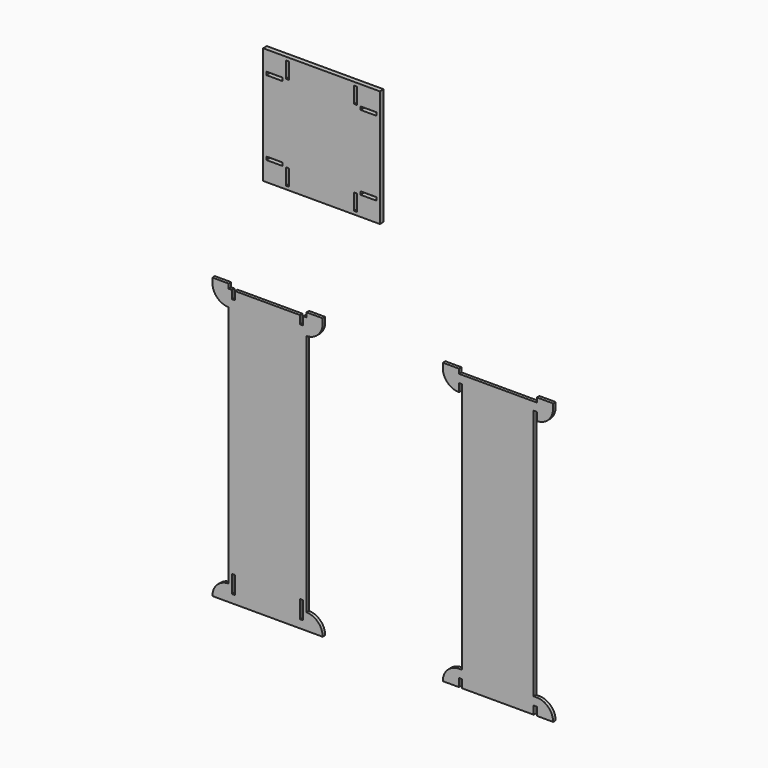
from build123d import *

# Parameters (mm, degrees)
F0_W     = 63.5
F0_H     = 17.78
F0_W_2   = 12.7
F0_H_2   = 38.1
F1_DEPTH = 12.319
F0_W_3   = 457.2
F0_H_3   = 457.2
F0_H_4   = 12.319
F0_W_4   = 12.319
F0_H_5   = 63.5
F2_DEPTH = 18.161


with BuildPart() as f1:
    # F0 (on Front) → F1 (new body)
    with BuildSketch(Plane.XZ):
        with BuildLine():
            Line((-139.7, 565.15), (-139.7, 596.9))
            Line((-139.7, 596.9), (-203.2, 596.9))
            ThreePointArc((-203.2, 596.9), (-184.601281, 551.998719), (-139.7, 533.4))
            Line((-139.7, 533.4), (-139.7, 565.15))
        make_face()
        with BuildLine():
            Line((228.6, 596.9), (165.1, 596.9))
            Line((165.1, 596.9), (165.1, 533.4))
            ThreePointArc((165.1, 533.4), (210.001281, 551.998719), (228.6, 596.9))
        make_face()
        with BuildLine():
            Line((-139.7, -482.6), (-139.7, -419.1))
            ThreePointArc((-139.7, -419.1), (-184.601281, -437.698719), (-203.2, -482.6))
            Line((-203.2, -482.6), (-139.7, -482.6))
        make_face()
        with BuildLine():
            Line((165.1, -419.1), (165.1, -482.6))
            Line((165.1, -482.6), (228.6, -482.6))
            ThreePointArc((228.6, -482.6), (210.001281, -437.698719), (165.1, -419.1))
        make_face()
        with Locations((-171.45, 605.79)):
            Rectangle(F0_W, F0_H)
        with Locations((196.85, 605.79)):
            Rectangle(F0_W, F0_H)
        with Locations((730.25, 605.79)):
            Rectangle(F0_W, F0_H)
        with BuildLine():
            ThreePointArc((698.5, 596.9), (717.098719, 551.998719), (762, 533.4))
            Line((762, 533.4), (762, 565.15))
            Line((762, 565.15), (762, 596.9))
            Line((762, 596.9), (698.5, 596.9))
        make_face()
        with Locations((1098.55, 605.79)):
            Rectangle(F0_W, F0_H)
        with BuildLine():
            Line((1066.8, 565.15), (1066.8, 533.4))
            ThreePointArc((1066.8, 533.4), (1111.701281, 551.998719), (1130.3, 596.9))
            Line((1130.3, 596.9), (1066.8, 596.9))
            Line((1066.8, 596.9), (1066.8, 565.15))
        make_face()
        with BuildLine():
            Line((698.5, -482.6), (762, -482.6))
            Line((762, -482.6), (762, -450.85))
            Line((762, -450.85), (762, -419.1))
            ThreePointArc((762, -419.1), (717.098719, -437.698719), (698.5, -482.6))
        make_face()
        with BuildLine():
            Line((1066.8, -450.85), (1066.8, -482.6))
            Line((1066.8, -482.6), (1130.3, -482.6))
            ThreePointArc((1130.3, -482.6), (1111.701281, -437.698719), (1066.8, -419.1))
            Line((1066.8, -419.1), (1066.8, -450.85))
        make_face()
        Polygon((-127, 596.9), (-139.7, 596.9), (-139.7, 565.15), (-139.7, 533.4), (-139.7, -381), (-127, -381), (-114.681, -381), (-114.681, -450.85), (-127, -450.85), (-127, -419.1), (-139.7, -419.1), (-139.7, -482.6), (165.1, -482.6), (165.1, -419.1), (152.4, -419.1), (152.4, -450.85), (140.081, -450.85), (140.081, -381), (152.4, -381), (165.1, -381), (165.1, 533.4), (165.1, 596.9), (152.4, 596.9), (152.4, 565.15), (140.081, 565.15), (140.081, 596.9), (-114.681, 596.9), (-114.681, 565.15), (-127, 565.15), align=None)
        Polygon((774.319, -450.85), (774.319, -482.6), (1054.481, -482.6), (1054.481, -450.85), (1066.8, -450.85), (1066.8, -419.1), (1054.481, -419.1), (1054.481, 533.4), (1054.481, 565.15), (1066.8, 565.15), (1066.8, 596.9), (762, 596.9), (762, 565.15), (774.319, 565.15), (774.319, 533.4), (774.319, -419.1), (762, -419.1), (762, -450.85), align=None)
        with Locations((-133.35, -400.05)):
            Rectangle(F0_W_2, F0_H_2)
        with Locations((158.75, -400.05)):
            Rectangle(F0_W_2, F0_H_2)
    extrude(amount=F1_DEPTH)


with BuildPart() as f2:
    # F0 (on Front) → F2 (new body)
    with BuildSketch(Plane.XZ):
        with Locations((228.6, 1244.6)):
            Rectangle(F0_W_3, F0_H_3)
        with Locations((44.45, 1098.3595)):
            Rectangle(F0_W, F0_H_4, mode=Mode.SUBTRACT)
        with Locations((95.0595, 1060.45)):
            Rectangle(F0_W_4, F0_H_5, mode=Mode.SUBTRACT)
        with Locations((44.45, 1390.8405)):
            Rectangle(F0_W, F0_H_4, mode=Mode.SUBTRACT)
        with Locations((95.0595, 1428.75)):
            Rectangle(F0_W_4, F0_H_5, mode=Mode.SUBTRACT)
        with Locations((362.1405, 1060.45)):
            Rectangle(F0_W_4, F0_H_5, mode=Mode.SUBTRACT)
        with Locations((412.75, 1098.3595)):
            Rectangle(F0_W, F0_H_4, mode=Mode.SUBTRACT)
        with Locations((362.1405, 1428.75)):
            Rectangle(F0_W_4, F0_H_5, mode=Mode.SUBTRACT)
        with Locations((412.75, 1390.8405)):
            Rectangle(F0_W, F0_H_4, mode=Mode.SUBTRACT)
    extrude(amount=F2_DEPTH)


solid = Compound([f1.part, f2.part])
